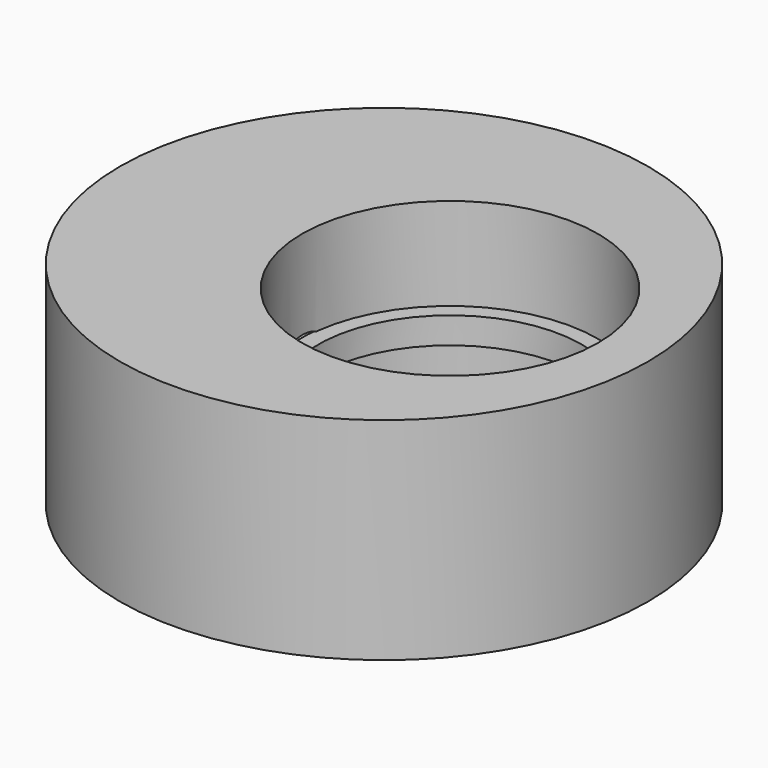
from build123d import *

# Parameters (mm, degrees)
CYLINDER004_R          = 10
CYLINDER004_DEPTH      = 10
CYLINDER003_R          = 11.3
CYLINDER003_DEPTH      = 2
CYLINDER002_R          = 4
CYLINDER002_DEPTH      = 40
CYLINDER002_ROLL_ANGLE = 90
CYLINDER001_R          = 11.2
CYLINDER001_DEPTH      = 16
CYLINDER_R             = 20
CYLINDER_DEPTH         = 16


with BuildPart() as cylinder004:
    # Cylinder004 → Cylinder004 (new body)
    with BuildSketch(Plane(origin=(5, 0, 0), x_dir=(1, 0, 0), z_dir=(0, 0, 1))):
        Circle(CYLINDER004_R)
    extrude(amount=CYLINDER004_DEPTH)


with BuildPart() as cylinder003:
    # Cylinder003 → Cylinder003 (new body)
    with BuildSketch(Plane(origin=(5, 0, 7), x_dir=(1, 0, 0), z_dir=(0, 0, 1))):
        Circle(CYLINDER003_R)
    extrude(amount=CYLINDER003_DEPTH)


with BuildPart() as cylinder002:
    # Cylinder002 → Cylinder002 (new body)
    with BuildSketch(Plane.XY):
        Circle(CYLINDER002_R)
    extrude(amount=CYLINDER002_DEPTH)


with BuildPart() as cylinder002_1:
    # Cylinder002 roll: moved
    add(cylinder002.part.rotate(Axis((0, 0, 0), (1, 0, 0)), CYLINDER002_ROLL_ANGLE))


with BuildPart() as cylinder002_2:
    # Cylinder002 placement: moved
    add(cylinder002_1.part.moved(Location((-10, 26, 8))))


with BuildPart() as cylinder001:
    # Cylinder001 → Cylinder001 (new body)
    with BuildSketch(Plane(origin=(5, 0, 0), x_dir=(1, 0, 0), z_dir=(0, 0, 1))):
        Circle(CYLINDER001_R)
    extrude(amount=CYLINDER001_DEPTH)


with BuildPart() as cut002:
    # Cylinder → Cylinder (new body)
    with BuildSketch(Plane.XY):
        Circle(CYLINDER_R)
    extrude(amount=CYLINDER_DEPTH)

    # Cut: cut Cylinder001
    add(cylinder001.part, mode=Mode.SUBTRACT)

    # Cut001: cut Cylinder002
    add(cylinder002_2.part, mode=Mode.SUBTRACT)

    # Fusion: union Cylinder003
    add(cylinder003.part)

    # Cut002: cut Cylinder004
    add(cylinder004.part, mode=Mode.SUBTRACT)


solid = cut002.part
